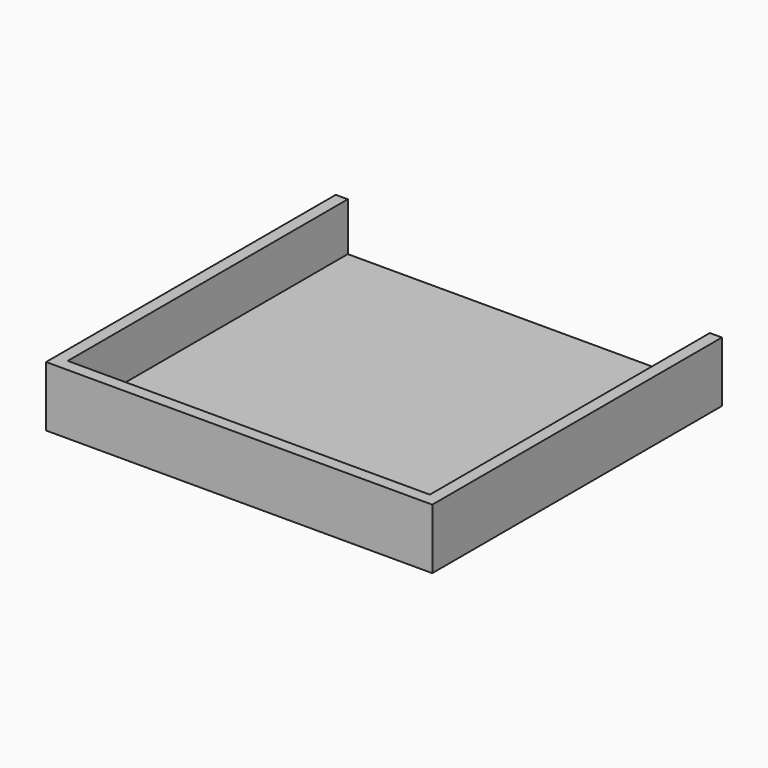
from build123d import *

# Parameters (mm, degrees)
F0_W     = 76.2
F0_H     = 2.54
F1_DEPTH = 76.2
F2_DEPTH = 76.2
F3_DEPTH = 76.2
F4_W     = 2.54
F4_H     = 10.16
F5_DEPTH = 76.2


with BuildPart() as f1:
    # F0 (on Front) → F1 (new body)
    with BuildSketch(Plane.XZ):
        with Locations((0.177208, -1.27)):
            Rectangle(F0_W, F0_H)
    extrude(amount=F1_DEPTH)

    # F0 (on Front) → F2 (join)
    with BuildSketch(Plane.XZ):
        Polygon((-37.922792, -2.54), (-37.922792, 0), (-37.922792, 10.16), (-40.462792, 10.16), (-40.462792, -2.54), align=None)
    extrude(amount=F2_DEPTH)

    # F0 (on Front) → F3 (join)
    with BuildSketch(Plane.XZ):
        Polygon((38.277208, 10.16), (38.277208, 0), (38.277208, -2.54), (40.817208, -2.54), (40.817208, 10.16), align=None)
    extrude(amount=F3_DEPTH)

    # F4 (on face) → F5 (join)
    with BuildSketch(Plane.YZ.offset(-37.922792)):
        with Locations((-74.93, 5.08)):
            Rectangle(F4_W, F4_H)
    extrude(amount=F5_DEPTH)


solid = f1.part
